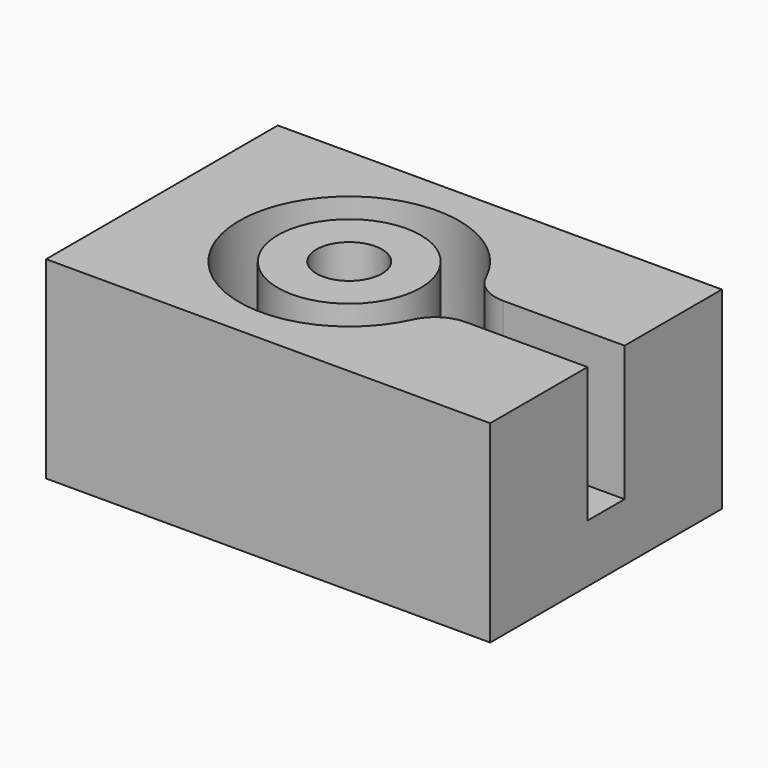
from build123d import *

# Parameters (mm, degrees)
F1_W     = 23
F1_H     = 15
F2_DEPTH = 10
F4_DEPTH = 7
F5_R     = 2
F6_R     = 3.7
F6_R_2   = 1.7
F7_DEPTH = 7
F8_DEPTH = 25


with BuildPart() as f2:
    # F1 (on Top) → F2 (new body)
    with BuildSketch(Plane.XY):
        with Locations((1.8, 0)):
            Rectangle(F1_W, F1_H)
    extrude(amount=F2_DEPTH)

    # F3 (on face) → F4 (cut)
    with BuildSketch(Plane.XY.offset(10)):
        with BuildLine():
            ThreePointArc((5.5722526863, -1.2), (5.6679731965, -0.6033902916), (5.7, 0))
            ThreePointArc((5.7, 0), (5.6679731965, 0.6033902916), (5.5722526863, 1.2))
            Line((5.5722526863, 1.2), (1.572670415, 1.2))
            Line((1.572670415, 1.2), (1.572670415, -1.2))
            Line((1.572670415, -1.2), (5.5722526863, -1.2))
        make_face()
        with BuildLine():
            ThreePointArc((5.5722526863, 1.2), (5.6679731965, 0.6033902916), (5.7, 0))
            ThreePointArc((5.7, 0), (5.6679731965, -0.6033902916), (5.5722526863, -1.2))
            Line((5.5722526863, -1.2), (15.8343315125, -1.2))
            Line((15.8343315125, -1.2), (15.8343315125, 1.2))
            Line((15.8343315125, 1.2), (5.5722526863, 1.2))
        make_face()
        with BuildLine():
            Line((1.572670415, 1.2), (5.5722526863, 1.2))
            ThreePointArc((5.5722526863, 1.2), (-5.7, 0), (5.5722526863, -1.2))
            Line((5.5722526863, -1.2), (1.572670415, -1.2))
            Line((1.572670415, -1.2), (1.572670415, 1.2))
        make_face()
    extrude(amount=-F4_DEPTH, mode=Mode.SUBTRACT)

    # F5
    f5_edges = [f2.edges().sort_by_distance(p)[0] for p in [
        (5.572253, 1.2, 6.5),
        (5.572253, -1.2, 6.5),
    ]]
    fillet(f5_edges, radius=F5_R)

    # F6 (on face) → F7 (join)
    with BuildSketch(Plane.XY.offset(3)):
        Circle(F6_R)
        Circle(F6_R_2, mode=Mode.SUBTRACT)
    extrude(amount=F7_DEPTH)

    # F8 (cut): a face of the model
    f8_faces = [f2.faces().sort_by_distance(p)[0] for p in [
        (0, 0, 3),
    ]]
    extrude(f8_faces, amount=-F8_DEPTH, mode=Mode.SUBTRACT)


solid = f2.part
